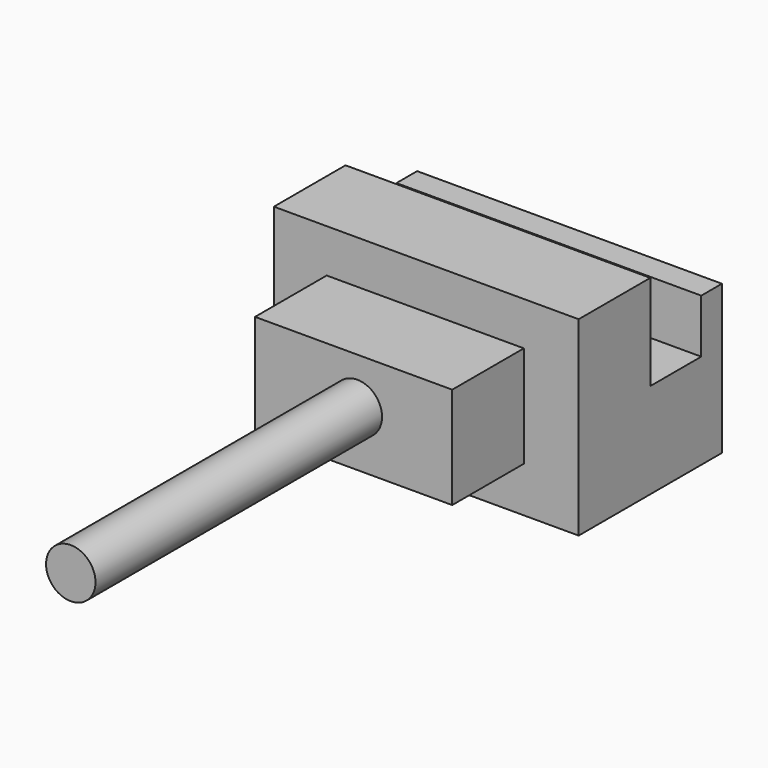
from build123d import *

# Parameters (mm, degrees)
F0_W      = 85.094787
F0_H      = 53.184243
F1_DEPTH  = 25
F2_W      = 55.050354
F2_H      = 28.36493
F3_DEPTH  = 25
F4_R      = 6.907141
F5_DEPTH  = 100
F6_W      = 85.094787
F6_H      = 26.592122
F7_DEPTH  = 25
F8_W      = 85.094787
F8_H      = 7.216379
F9_DEPTH  = 15
F10_R     = 5.741316
F11_DEPTH = 1


with BuildPart() as f1:
    # F0 (on Front) → F1 (new body)
    with BuildSketch(Plane.XZ):
        with Locations((-3.17416, 9.703791)):
            Rectangle(F0_W, F0_H)
    extrude(amount=F1_DEPTH)

    # F2 (on face) → F3 (join)
    with BuildSketch(Plane.XZ.offset(25)):
        with Locations((-3.454076, 9.983709)):
            Rectangle(F2_W, F2_H)
    extrude(amount=F3_DEPTH)

    # F4 (on face) → F5 (join)
    with BuildSketch(Plane.XZ.offset(50)):
        with Locations((-2.427712, 11.103378)):
            Circle(F4_R)
    extrude(amount=F5_DEPTH)

    # F6 (on face) → F7 (join)
    with BuildSketch(Plane(origin=(0, 0, 0), x_dir=(-1, 0, 0), z_dir=(0, 1, 0))):
        with Locations((3.17416, -3.592269)):
            Rectangle(F6_W, F6_H)
    extrude(amount=F7_DEPTH)

    # F8 (on face) → F9 (join)
    with BuildSketch(Plane.XY.offset(9.703792)):
        with Locations((-3.17416, 21.39181)):
            Rectangle(F8_W, F8_H)
    extrude(amount=F9_DEPTH)

    # F10 (on face) → F11 (join)
    with BuildSketch(Plane(origin=(0, 0, 0), x_dir=(-1, 0, 0), z_dir=(0, 1, 0))):
        with Locations((3.17416, 24.539398)):
            Circle(F10_R)
    extrude(amount=F11_DEPTH)


solid = f1.part
